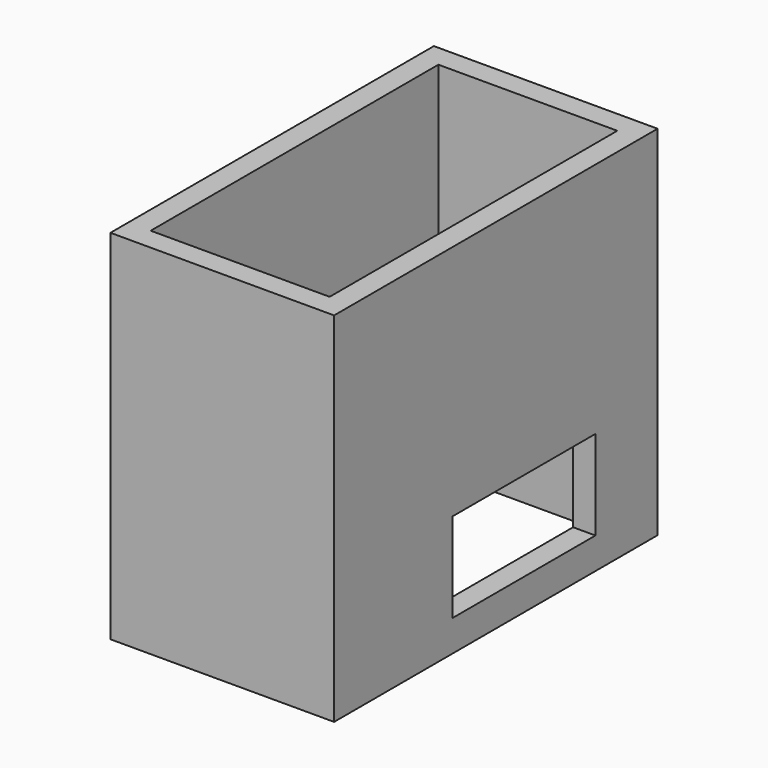
from build123d import *

# Parameters (mm, degrees)
F0_W     = 63.5
F0_H     = 114.7826
F0_W_2   = 50.8
F0_H_2   = 102.0826
F1_DEPTH = 101.6
F2_W     = 50.8
F2_H     = 25.4
F3_DEPTH = 25.4


with BuildPart() as f1:
    # F0 (on Top) → F1 (new body)
    with BuildSketch(Plane.XY):
        with Locations((2.064243, 17.569714)):
            Rectangle(F0_W, F0_H)
        with Locations((2.064243, 17.569714)):
            Rectangle(F0_W_2, F0_H_2, mode=Mode.SUBTRACT)
    extrude(amount=F1_DEPTH)

    # F2 (on face) → F3 (cut)
    with BuildSketch(Plane.YZ.offset(33.814243)):
        with Locations((27.519288, 21.59)):
            Rectangle(F2_W, F2_H)
    extrude(amount=-F3_DEPTH, mode=Mode.SUBTRACT)


solid = f1.part
